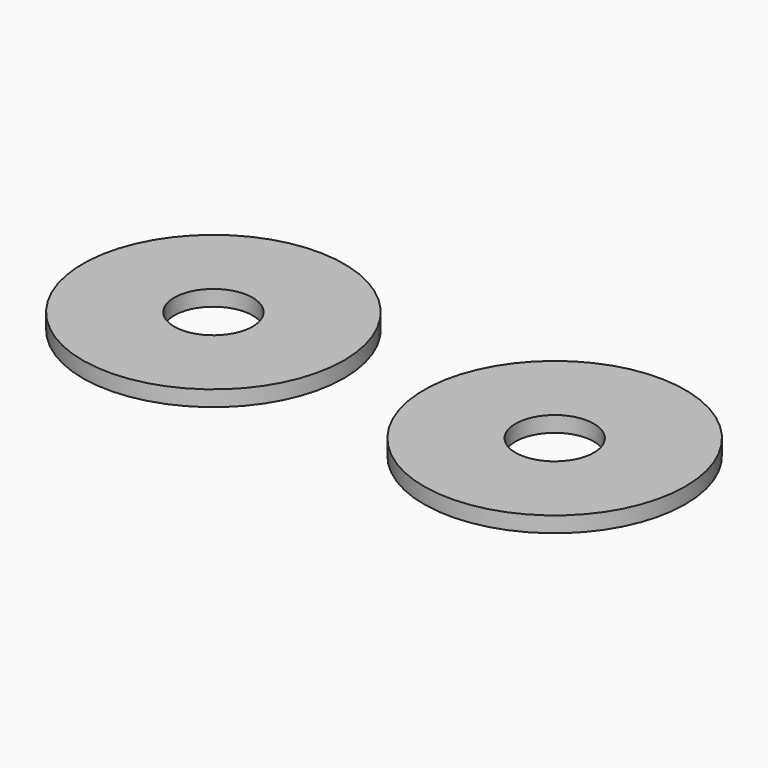
from build123d import *

# Parameters (mm, degrees)
F0_R     = 50
F0_R_2   = 15
F1_DEPTH = 6


with BuildPart() as f1:
    # F0 (on Top) → F1 (new body)
    with BuildSketch(Plane.XY):
        Circle(F0_R)
        Circle(F0_R_2, mode=Mode.SUBTRACT)
        with Locations((-130.581483, 0)):
            Circle(F0_R)
        with Locations((-130.581483, 0)):
            Circle(F0_R_2, mode=Mode.SUBTRACT)
    extrude(amount=F1_DEPTH)


solid = f1.part
